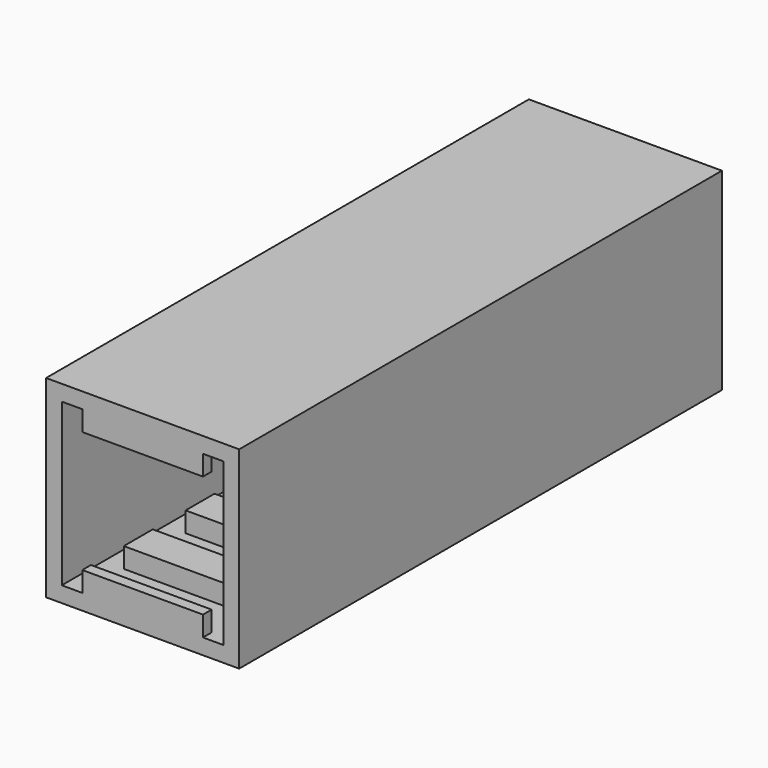
from build123d import *

# Parameters (mm, degrees)
F0_W      = 48
F0_H      = 48
F0_W_2    = 40.2
F0_H_2    = 40.2
F1_DEPTH  = 150
F2_W      = 30
F2_H      = 5
F3_DEPTH  = 2.7
F5_W      = 30
F5_H      = 5
F6_DEPTH  = 9
F8_W      = 30
F8_H      = 5
F9_DEPTH  = 9
F11_W     = 30
F11_H     = 5
F12_DEPTH = 9
F14_W     = 30
F14_H     = 5
F15_DEPTH = 9
F17_W     = 30
F17_H     = 5
F18_DEPTH = 9
F20_W     = 30
F20_H     = 5
F21_DEPTH = 9
F23_W     = 30
F23_H     = 5
F24_DEPTH = 9
F26_W     = 30
F26_H     = 5
F27_DEPTH = 2.7


with BuildPart() as f1:
    # F0 (on Front) → F1 (new body)
    with BuildSketch(Plane.XZ):
        Rectangle(F0_W, F0_H)
        Rectangle(F0_W_2, F0_H_2, mode=Mode.SUBTRACT)
    extrude(amount=F1_DEPTH)

    # F2 (on Front) → F3 (join)
    with BuildSketch(Plane.XZ):
        with Locations((0, 17.6)):
            Rectangle(F2_W, F2_H)
        with Locations((0, -17.6)):
            Rectangle(F2_W, F2_H)
    extrude(amount=F3_DEPTH)

    # F5 (on offset) → F6 (join)
    with BuildSketch(Plane.XZ.offset(12.9)):
        with Locations((0, 17.601031)):
            Rectangle(F5_W, F5_H)
        with Locations((0, -17.6)):
            Rectangle(F5_W, F5_H)
    extrude(amount=F6_DEPTH)

    # F8 (on offset) → F9 (join)
    with BuildSketch(Plane.XZ.offset(32.1)):
        with Locations((0, 17.6)):
            Rectangle(F8_W, F8_H)
        with Locations((0, -17.6)):
            Rectangle(F8_W, F8_H)
    extrude(amount=F9_DEPTH)

    # F11 (on offset) → F12 (join)
    with BuildSketch(Plane.XZ.offset(51.3)):
        with Locations((0, -17.6)):
            Rectangle(F11_W, F11_H)
        with Locations((0, 17.6)):
            Rectangle(F11_W, F11_H)
    extrude(amount=F12_DEPTH)

    # F14 (on offset) → F15 (join)
    with BuildSketch(Plane.XZ.offset(70.5)):
        with Locations((0, 17.6)):
            Rectangle(F14_W, F14_H)
        with Locations((0, -17.6)):
            Rectangle(F14_W, F14_H)
    extrude(amount=F15_DEPTH)

    # F17 (on offset) → F18 (join)
    with BuildSketch(Plane.XZ.offset(89.7)):
        with Locations((0, 17.6)):
            Rectangle(F17_W, F17_H)
        with Locations((0, -17.6)):
            Rectangle(F17_W, F17_H)
    extrude(amount=F18_DEPTH)

    # F20 (on offset) → F21 (join)
    with BuildSketch(Plane.XZ.offset(108.9)):
        with Locations((0, 17.6)):
            Rectangle(F20_W, F20_H)
        with Locations((0, -17.6)):
            Rectangle(F20_W, F20_H)
    extrude(amount=F21_DEPTH)

    # F23 (on offset) → F24 (join)
    with BuildSketch(Plane.XZ.offset(128.1)):
        with Locations((0, 17.6)):
            Rectangle(F23_W, F23_H)
        with Locations((0, -17.6)):
            Rectangle(F23_W, F23_H)
    extrude(amount=F24_DEPTH)

    # F26 (on offset) → F27 (join)
    with BuildSketch(Plane.XZ.offset(147.3)):
        with Locations((0, 17.6)):
            Rectangle(F26_W, F26_H)
        with Locations((0, -17.6)):
            Rectangle(F26_W, F26_H)
    extrude(amount=F27_DEPTH)


solid = f1.part
